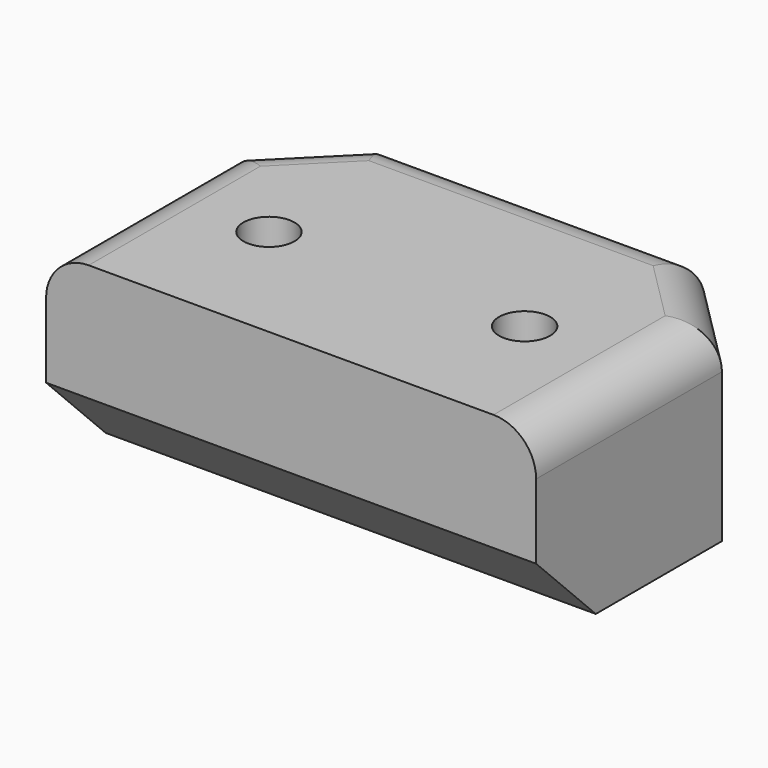
from build123d import *

# Parameters (mm, degrees)
CYLINDER010_R     = 1.2
CYLINDER010_DEPTH = 28
CYLINDER011_R     = 1.2
CYLINDER011_DEPTH = 28
BOX_W             = 23
BOX_H             = 14.9
BOX_DEPTH         = 9
CHAMFER005_SIZE   = 3.5
CHAMFER006_SIZE   = 4
FILLET_R          = 2


with BuildPart() as cylinder010:
    # Cylinder010 → Cylinder010 (new body)
    with BuildSketch(Plane(origin=(-6, 6.7, 0), x_dir=(1, 0, 0), z_dir=(0, 0, 1))):
        Circle(CYLINDER010_R)
    extrude(amount=CYLINDER010_DEPTH)


with BuildPart() as fusion004003:
    # Cylinder011 → Cylinder011 (new body)
    with BuildSketch(Plane(origin=(6, 6.7, 0), x_dir=(1, 0, 0), z_dir=(0, 0, 1))):
        Circle(CYLINDER011_R)
    extrude(amount=CYLINDER011_DEPTH)

    # Fusion004003: union Cylinder010
    add(cylinder010.part)


with BuildPart() as fusion004003_1:
    # Fusion004003 placement: moved
    add(fusion004003.part.moved(Location((0, 0, -2))))


with BuildPart() as top_rf:
    # Box → Box (new body)
    with BuildSketch(Plane(origin=(-11.5, 0.5, 0), x_dir=(1, 0, 0), z_dir=(0, 0, 1))):
        with Locations((11.5, 7.45)):
            Rectangle(BOX_W, BOX_H)
    extrude(amount=BOX_DEPTH)

    # Chamfer005
    chamfer005_edges = [top_rf.edges().sort_by_distance(p)[0] for p in [
        (0, 0.5, 0),
    ]]
    chamfer(chamfer005_edges, length=CHAMFER005_SIZE)

    # Chamfer006
    chamfer006_edges = [top_rf.edges().sort_by_distance(p)[0] for p in [
        (-11.5, 15.4, 4.5),
        (11.5, 15.4, 4.5),
    ]]
    chamfer(chamfer006_edges, length=CHAMFER006_SIZE)

    # Fillet
    fillet_edges = [top_rf.edges().sort_by_distance(p)[0] for p in [
        (-11.5, 5.95, 9),
        (-9.5, 13.4, 9),
        (0, 15.4, 9),
        (11.5, 5.95, 9),
        (9.5, 13.4, 9),
    ]]
    fillet(fillet_edges, radius=FILLET_R)

    # Cut: cut Fusion004003
    add(fusion004003_1.part, mode=Mode.SUBTRACT)


solid = top_rf.part
